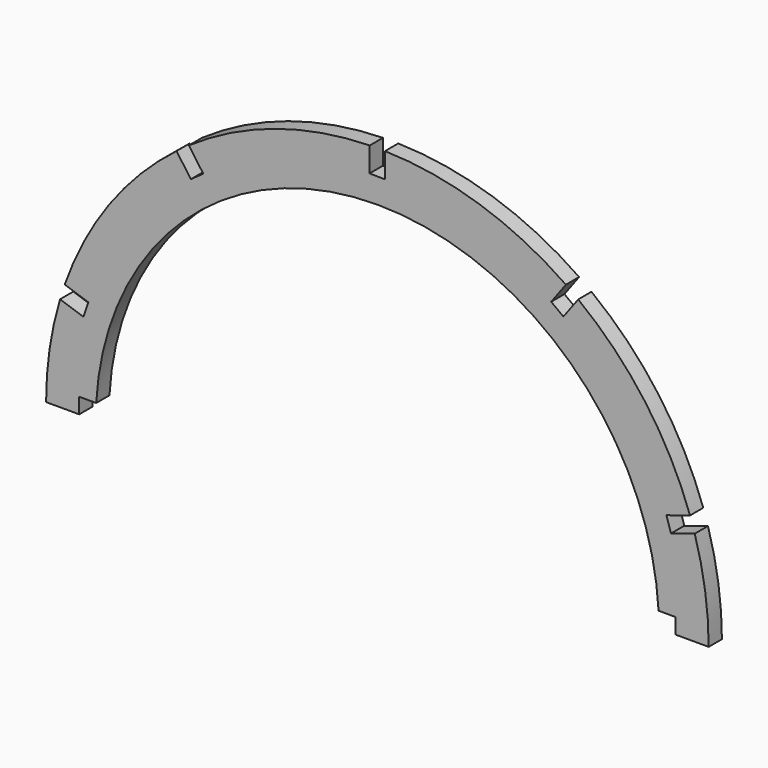
from build123d import *

# Parameters (mm, degrees)
F1_DEPTH = 3.175


with BuildPart() as f1:
    # F0 (on Front) → F1 (new body)
    with BuildSketch(Plane.XZ):
        with BuildLine():
            Line((57.15, 0), (63.5, 0))
            ThreePointArc((63.5, 0), (62.82811, 9.21296), (60.826657, 18.230956))
            Line((60.826657, 18.230956), (56.284487, 16.799141))
            Line((56.284487, 16.799141), (55.406307, 19.585005))
            Line((55.406307, 19.585005), (59.923863, 21.009061))
            ThreePointArc((59.923863, 21.009061), (51.370959, 37.326593), (38.493912, 50.502165))
            Line((38.493912, 50.502165), (35.660819, 46.673982))
            Line((35.660819, 46.673982), (33.312867, 48.411612))
            Line((33.312867, 48.411612), (36.130607, 52.219051))
            ThreePointArc((36.130607, 52.219051), (19.619958, 60.392941), (1.457801, 63.483264))
            Line((1.457801, 63.483264), (1.415931, 58.720948))
            Line((1.415931, 58.720948), (-1.504956, 58.746629))
            Line((-1.504956, 58.746629), (-1.463313, 63.483137))
            ThreePointArc((-1.463313, 63.483137), (-19.625201, 60.391237), (-36.13514, 52.215914))
            Line((-36.13514, 52.215914), (-33.369795, 48.338508))
            Line((-33.369795, 48.338508), (-35.747937, 46.64243))
            Line((-35.747937, 46.64243), (-38.498297, 50.498823))
            ThreePointArc((-38.498297, 50.498823), (-51.374199, 37.322134), (-59.925687, 21.003859))
            Line((-59.925687, 21.003859), (-55.409394, 19.492401))
            Line((-55.409394, 19.492401), (-56.336421, 16.722408))
            Line((-56.336421, 16.722408), (-60.82824, 18.225675))
            ThreePointArc((-60.82824, 18.225675), (-62.82851, 9.210233), (-63.5, 0))
            Line((-63.5, 0), (-57.15, 0))
            Line((-57.15, 0), (-57.15, 2.9718))
            Line((-57.15, 2.9718), (-53.893126, 2.9718))
            ThreePointArc((-53.893126, 2.9718), (0, 53.975), (53.893126, 2.9718))
            Line((53.893126, 2.9718), (53.975, 2.9718))
            Line((53.975, 2.9718), (57.15, 2.9718))
            Line((57.15, 2.9718), (57.15, 0))
        make_face()
    extrude(amount=F1_DEPTH)


solid = f1.part
